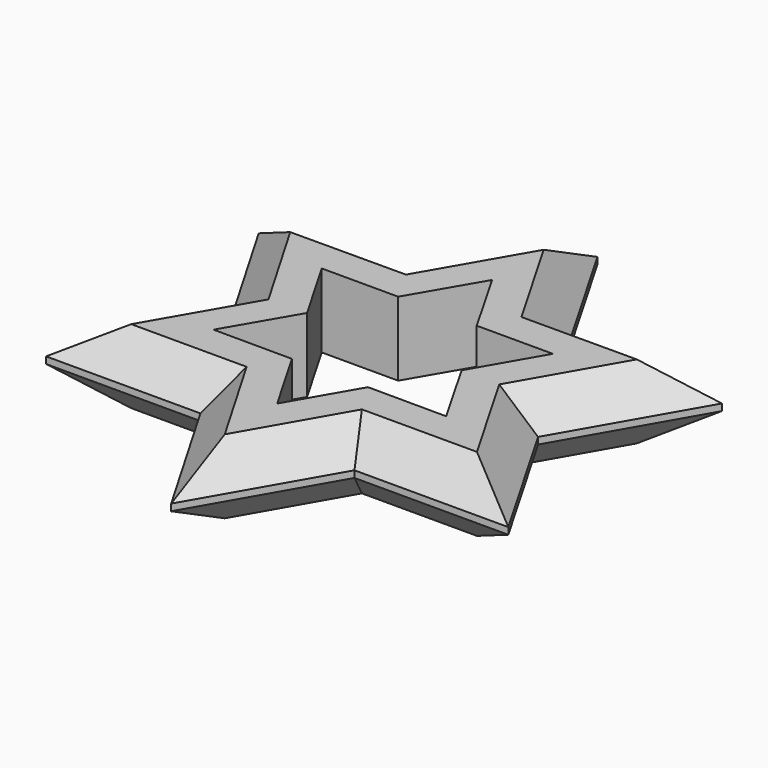
from build123d import *

# Parameters (mm, degrees)
F1_DEPTH = 13.2
F2_SIZE  = 6


with BuildPart() as f1:
    # F0 (on Top) → F1 (new body)
    with BuildSketch(Plane.XY):
        Polygon((13.728076, 23.854128), (0, 47.631852), (-13.772152, 23.777786), (-41.316349, 23.701321), (-27.522319, -0.038202), (-41.250394, -23.815926), (-13.70609, -23.815926), (0.132228, -47.631669), (13.794243, -23.815926), (41.250394, -23.815926), (27.478242, 0.038141), (41.184121, 23.930348), align=None)
        Polygon((-20.603834, -11.944912), (-20.865917, -11.943939), (-20.735018, -11.719145), (-13.830155, 0.138606), (-20.625197, 11.907963), (-6.976765, 11.907963), (-0.042679, 23.815899), (0.089204, 24.042383), (0.218432, 23.816624), (7.035114, 11.907963), (20.625197, 11.907963), (13.800981, 0.088075), (20.646514, -11.870988), (20.776713, -12.098445), (20.516586, -12.09748), (6.795042, -12.046569), (0, -23.815926), (-6.824216, -11.996038), align=None, mode=Mode.SUBTRACT)
    extrude(amount=F1_DEPTH)

    # F2
    f2_edges = [f1.edges().sort_by_distance(p)[0] for p in [
        (-6.786931, -35.723797, 0),
        (-27.478242, -23.815926, 0),
        (6.963236, -35.723797, 0),
        (27.522319, -23.815926, 0),
        (34.364318, -11.888893, 0),
        (34.331182, 11.984244, 0),
        (27.456098, 23.892238, 0),
        (6.864038, 35.74299, 0),
        (-6.886076, 35.704819, 0),
        (-27.544251, 23.739553, 0),
        (-34.419334, 11.83156, 0),
        (-34.386356, -11.927064, 0),
        (6.963236, -35.723797, 13.2),
        (27.522319, -23.815926, 13.2),
        (34.364318, -11.888893, 13.2),
        (34.331182, 11.984244, 13.2),
        (27.456098, 23.892238, 13.2),
        (6.864038, 35.74299, 13.2),
        (-6.886076, 35.704819, 13.2),
        (-27.544251, 23.739553, 13.2),
        (-34.419334, 11.83156, 13.2),
        (-34.386356, -11.927064, 13.2),
        (-27.478242, -23.815926, 13.2),
        (-6.786931, -35.723797, 13.2),
    ]]
    chamfer(f2_edges, length=F2_SIZE)


solid = f1.part
